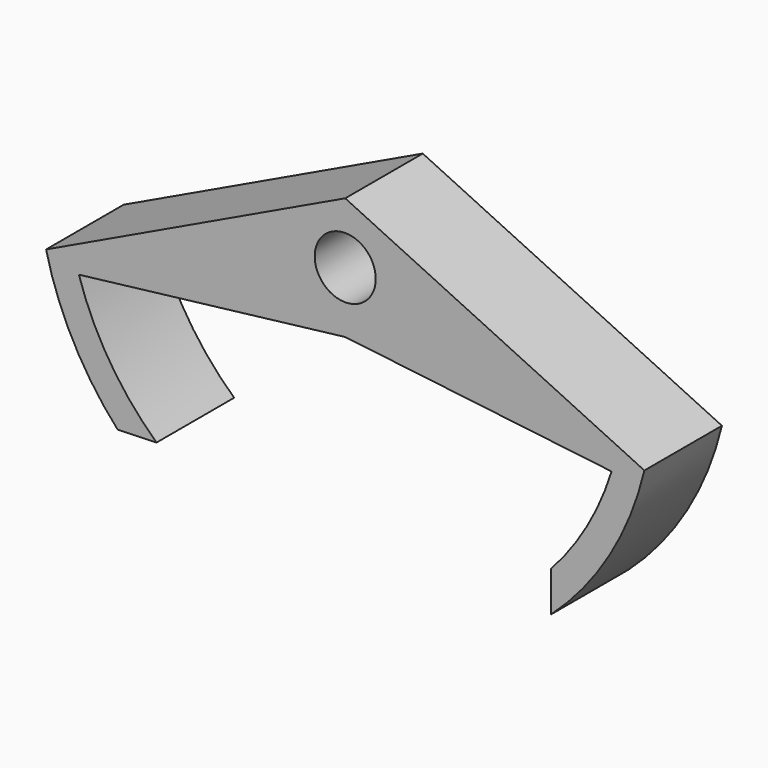
from build123d import *

# Parameters (mm, degrees)
F0_R     = 1.5
F1_DEPTH = 4.7625


with BuildPart() as f1:
    # F0 (on Front) → F1 (new body)
    with BuildSketch(Plane.XZ):
        with BuildLine():
            Line((10.109961, -9.738645), (10.109961, -11.715053))
            ThreePointArc((10.109961, -11.715053), (12.991369, -8.203415), (14.699125, -3.994177))
            Line((14.699125, -3.994177), (0, 2.9986))
            Line((0, 2.9986), (-14.699125, -3.994177))
            ThreePointArc((-14.699125, -3.994177), (-13.361828, -7.543024), (-11.183127, -10.647207))
            Line((-11.183127, -10.647207), (-9.269246, -10.580372))
            ThreePointArc((-9.269246, -10.580372), (-11.57614, -7.823081), (-13.086808, -4.560827))
            Line((-13.086808, -4.560827), (0, -3.0014))
            Line((0, -3.0014), (13.086808, -4.560827))
            ThreePointArc((13.086808, -4.560827), (11.883812, -7.313834), (10.109961, -9.738645))
        make_face()
        Circle(F0_R, mode=Mode.SUBTRACT)
    extrude(amount=F1_DEPTH)


solid = f1.part
